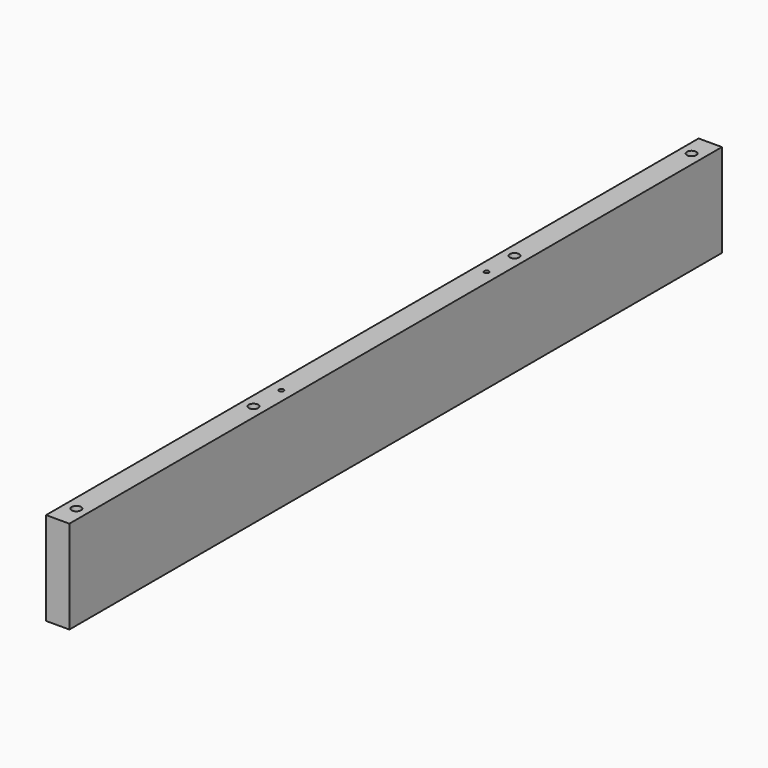
from build123d import *

# Parameters (mm, degrees)
F0_W     = 10
F0_H     = 40
F1_DEPTH = 350
F2_R     = 1
F2_R_2   = 2
F3_DEPTH = 10


with BuildPart() as f1:
    # F0 (on Front) → F1 (new body)
    with BuildSketch(Plane.XZ):
        with Locations((5, 20)):
            Rectangle(F0_W, F0_H)
    extrude(amount=F1_DEPTH)

    # F2 (on face) → F3 (cut)
    with BuildSketch(Plane.XY.offset(40)):
        with Locations((5, -120)):
            Circle(F2_R)
        with Locations((5, -230)):
            Circle(F2_R)
        with Locations((5, -340)):
            Circle(F2_R_2)
        with Locations((5, -245)):
            Circle(F2_R_2)
        with Locations((5, -10)):
            Circle(F2_R_2)
        with Locations((5, -105)):
            Circle(F2_R_2)
    extrude(amount=-F3_DEPTH, mode=Mode.SUBTRACT)


solid = f1.part
